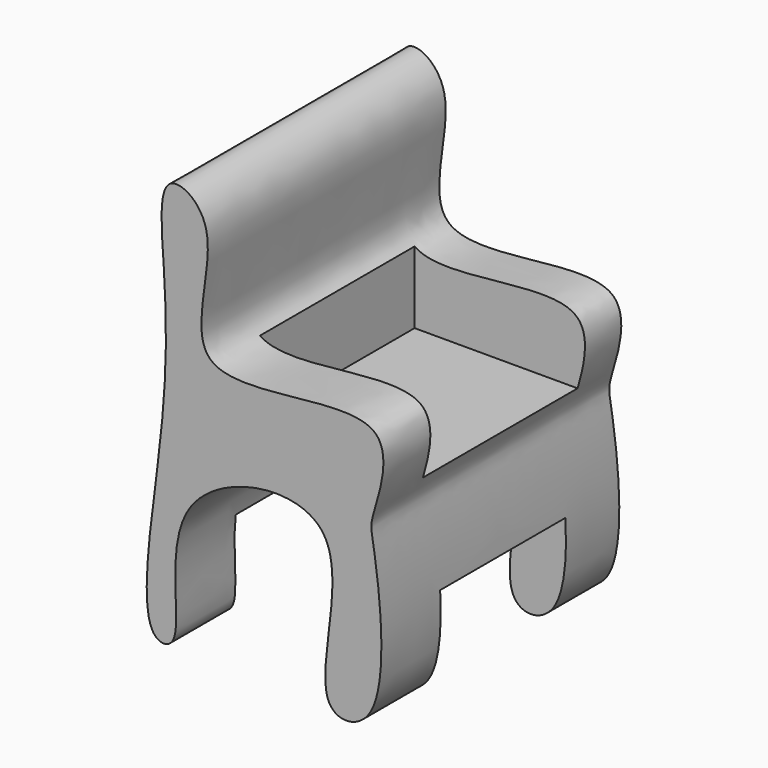
from build123d import *

# Parameters (mm, degrees)
F1_DEPTH      = 100
F2_W          = 52.6538509876
F2_H          = 32.5167179108
F3_DEPTH      = 100
F3_DEPTH_BACK = 65.9
F4_W          = 64.9985326454
F4_H          = 26.0075143306
F5_DEPTH      = 58.1
F5_DEPTH_BACK = 25


with BuildPart() as f1:
    # F0 (on Front) → F1 (new body)
    with BuildSketch(Plane.XZ):
        with BuildLine():
            add(Edge.make_bspline(
                [(-41.5593460202, 45.4046949744), (-40.4979732322, 29.3526537956), (-40.3198392171, -1.2408962467), (-52.0799811569, -66.6259117244), (-32.2954905988, -66.7169142716), (-48.8775253034, -13.4822867555), (31.3372129944, 0.2887557538), (3.202836623, -71.0069808083), (37.0861955706, -69.4656694376), (28.7791878181, -11.3420586124), (27.4837315969, -7.252822457), (43.1694588497, 35.2542196081), (-44.7560371019, 4.7469524572), (-18.5815465781, 62.4732314899), (-44.4760427042, 77.6787338301), (-42.3048963556, 56.6802852475), (-41.5593460202, 45.4046949744)],
                knots=[0, 0, 0, 0, 0.0913354569, 0.1880140027, 0.2196494015, 0.3017452455, 0.3868755342, 0.4766700957, 0.5230309507, 0.613850089, 0.6503795021, 0.7136525407, 0.8073640248, 0.8864335079, 0.9358423531, 1, 1, 1, 1], degree=3))
        make_face()
    extrude(amount=F1_DEPTH)

    # F2 (on Right) → F3 (cut, two sides)
    with BuildSketch(Plane.YZ) as f3_sk:
        with Locations((-48.7510925159, -52.9359281063)):
            Rectangle(F2_W, F2_H)
    extrude(amount=-F3_DEPTH, mode=Mode.SUBTRACT)
    extrude(f3_sk.sketch, amount=F3_DEPTH_BACK, mode=Mode.SUBTRACT)

    # F4 (on Right) → F5 (cut, two sides)
    with BuildSketch(Plane.YZ) as f5_sk:
        with Locations((-47.7760755457, 11.2239495502)):
            Rectangle(F4_W, F4_H)
    extrude(amount=F5_DEPTH, mode=Mode.SUBTRACT)
    extrude(f5_sk.sketch, amount=-F5_DEPTH_BACK, mode=Mode.SUBTRACT)


solid = f1.part
